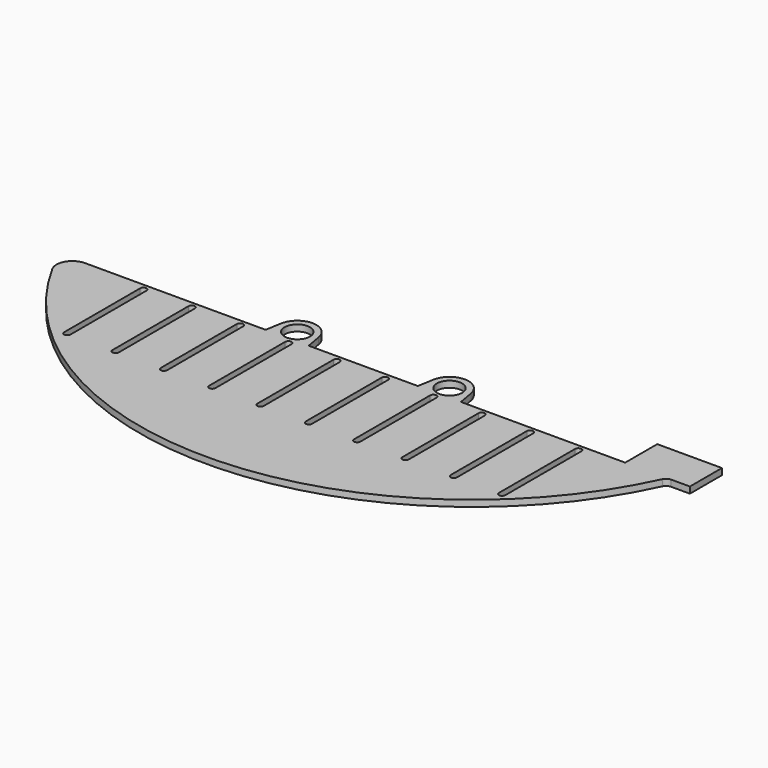
from build123d import *

# Parameters (mm, degrees)
F0_R     = 2.54
F1_DEPTH = 1.27
F3_DEPTH = 25.4


with BuildPart() as f1:
    # F0 (on Top) → F1 (new body)
    with BuildSketch(Plane.XY):
        with BuildLine():
            ThreePointArc((-94.472359, -11.035805), (-97.203597, -12.591866), (-97.257687, -15.734805))
            ThreePointArc((-97.257687, -15.734805), (-36.546229, -50.36885), (21.726042, -11.771693))
            ThreePointArc((21.726042, -11.771693), (22.194683, -11.235473), (22.878268, -11.035805))
            Line((22.878268, -11.035805), (25.526176, -11.035805))
            add(Edge.make_bspline(
                [(26.63919, -11.035805), (26.515522, -11.035805), (26.268185, -11.035805), (25.897181, -11.035805), (25.649844, -11.035805), (25.526176, -11.035805)],
                knots=[0, 0, 0, 0, 0.371005, 0.742009, 1.113014, 1.113014, 1.113014, 1.113014], degree=3))
            Line((26.63919, -11.035805), (26.636754, -3.015521))
            Line((26.636754, -3.015521), (15.20919, -3.015521))
            Line((15.20919, -3.015521), (15.206754, -3.015521))
            Line((15.206754, -3.015521), (13.68519, -3.015521))
            Line((13.68519, -3.015521), (13.68519, -11.035805))
            Line((13.68519, -11.035805), (-19.2116, -11.035805))
            Line((-19.2116, -11.035805), (-19.776128, -7.834206))
            ThreePointArc((-19.776128, -7.834206), (-23.528246, -4.685805), (-27.280363, -7.834206))
            Line((-27.280363, -7.834206), (-27.844892, -11.035805))
            Line((-27.844892, -11.035805), (-33.688246, -11.035805))
            Line((-33.688246, -11.035805), (-49.6916, -11.035805))
            Line((-49.6916, -11.035805), (-50.256128, -7.834206))
            ThreePointArc((-50.256128, -7.834206), (-54.008246, -4.685805), (-57.760363, -7.834206))
            Line((-57.760363, -7.834206), (-58.324892, -11.035805))
            Line((-58.324892, -11.035805), (-64.168246, -11.035805))
            Line((-64.168246, -11.035805), (-94.472359, -11.035805))
        make_face()
        with Locations((-54.008246, -8.495805)):
            Circle(F0_R, mode=Mode.SUBTRACT)
        with Locations((-23.528246, -8.495805)):
            Circle(F0_R, mode=Mode.SUBTRACT)
    extrude(amount=F1_DEPTH)

    # F2 (on face) → F3 (cut)
    with BuildSketch(Plane.XY.offset(1.27)):
        with BuildLine():
            ThreePointArc((-81.137359, -12.305805), (-81.772359, -11.670805), (-82.407359, -12.305805))
            Line((-82.407359, -12.305805), (-82.407359, -31.355805))
            ThreePointArc((-82.407359, -31.355805), (-81.772359, -31.990805), (-81.137359, -31.355805))
            Line((-81.137359, -31.355805), (-81.137359, -12.305805))
        make_face()
        with BuildLine():
            ThreePointArc((-71.462298, -12.305805), (-72.097298, -11.670805), (-72.732298, -12.305805))
            Line((-72.732298, -12.305805), (-72.732298, -31.355805))
            ThreePointArc((-72.732298, -31.355805), (-72.097298, -31.990805), (-71.462298, -31.355805))
            Line((-71.462298, -31.355805), (-71.462298, -12.305805))
        make_face()
        with BuildLine():
            ThreePointArc((-61.787237, -12.305805), (-62.422237, -11.670805), (-63.057237, -12.305805))
            Line((-63.057237, -12.305805), (-63.057237, -31.355805))
            ThreePointArc((-63.057237, -31.355805), (-62.422237, -31.990805), (-61.787237, -31.355805))
            Line((-61.787237, -31.355805), (-61.787237, -12.305805))
        make_face()
        with BuildLine():
            ThreePointArc((-52.112176, -12.305805), (-52.747176, -11.670805), (-53.382176, -12.305805))
            Line((-53.382176, -12.305805), (-53.382176, -31.355805))
            ThreePointArc((-53.382176, -31.355805), (-52.747176, -31.990805), (-52.112176, -31.355805))
            Line((-52.112176, -31.355805), (-52.112176, -12.305805))
        make_face()
        with BuildLine():
            ThreePointArc((-42.437115, -12.305805), (-43.072115, -11.670805), (-43.707115, -12.305805))
            Line((-43.707115, -12.305805), (-43.707115, -31.355805))
            ThreePointArc((-43.707115, -31.355805), (-43.072115, -31.990805), (-42.437115, -31.355805))
            Line((-42.437115, -31.355805), (-42.437115, -12.305805))
        make_face()
        with BuildLine():
            ThreePointArc((-32.762054, -12.305805), (-33.397054, -11.670805), (-34.032054, -12.305805))
            Line((-34.032054, -12.305805), (-34.032054, -31.355805))
            ThreePointArc((-34.032054, -31.355805), (-33.397054, -31.990805), (-32.762054, -31.355805))
            Line((-32.762054, -31.355805), (-32.762054, -12.305805))
        make_face()
        with BuildLine():
            ThreePointArc((-23.086993, -12.305805), (-23.721993, -11.670805), (-24.356993, -12.305805))
            Line((-24.356993, -12.305805), (-24.356993, -31.355805))
            ThreePointArc((-24.356993, -31.355805), (-23.721993, -31.990805), (-23.086993, -31.355805))
            Line((-23.086993, -31.355805), (-23.086993, -12.305805))
        make_face()
        with BuildLine():
            ThreePointArc((-13.411932, -12.305805), (-14.046932, -11.670805), (-14.681932, -12.305805))
            Line((-14.681932, -12.305805), (-14.681932, -31.355805))
            ThreePointArc((-14.681932, -31.355805), (-14.046932, -31.990805), (-13.411932, -31.355805))
            Line((-13.411932, -31.355805), (-13.411932, -12.305805))
        make_face()
        with BuildLine():
            ThreePointArc((-3.736871, -12.305805), (-4.371871, -11.670805), (-5.006871, -12.305805))
            Line((-5.006871, -12.305805), (-5.006871, -31.355805))
            ThreePointArc((-5.006871, -31.355805), (-4.371871, -31.990805), (-3.736871, -31.355805))
            Line((-3.736871, -31.355805), (-3.736871, -12.305805))
        make_face()
        with BuildLine():
            ThreePointArc((5.93819, -12.305805), (5.30319, -11.670805), (4.66819, -12.305805))
            Line((4.66819, -12.305805), (4.66819, -31.355805))
            ThreePointArc((4.66819, -31.355805), (5.30319, -31.990805), (5.93819, -31.355805))
            Line((5.93819, -31.355805), (5.93819, -12.305805))
        make_face()
    extrude(amount=-F3_DEPTH, mode=Mode.SUBTRACT)


solid = f1.part
